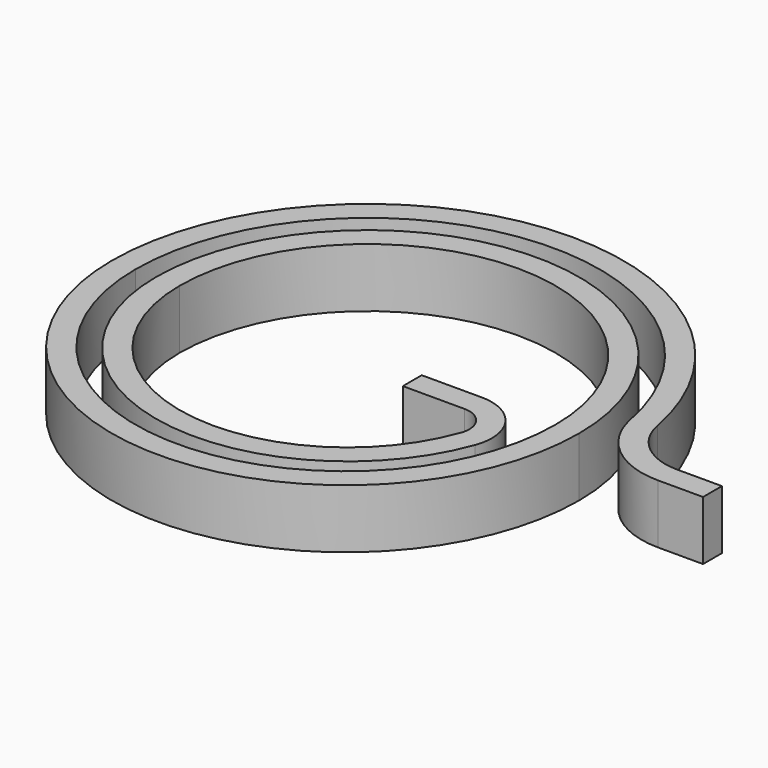
from build123d import *

# Parameters (mm, degrees)
F1_DEPTH = 3


with BuildPart() as f1:
    # F0 (on Top) → F1 (new body)
    with BuildSketch(Plane.XY):
        with BuildLine():
            ThreePointArc((15.716234, 0), (13.804101, 0.688345), (12.76944, 2.4375))
            ThreePointArc((12.76944, 2.4375), (-1.22419, 12.942232), (-13, 0))
            ThreePointArc((-13, 0), (-1.125, -11.875), (10.75, 0))
            ThreePointArc((10.75, 0), (0, 10.75), (-10.75, 0))
            ThreePointArc((-10.75, 0), (-2.707419, -9.599334), (8.151994, -3.362069))
            ThreePointArc((8.151994, -3.362069), (7.85535, -1.069121), (5.805329, 0))
            Line((5.805329, 0), (2.75, 0))
            Line((2.75, 0), (2.75, -1.2))
            Line((2.75, -1.2), (5.876591, -1.2))
            ThreePointArc((5.876591, -1.2), (6.898085, -1.729549), (7.054089, -2.869521))
            ThreePointArc((7.054089, -2.869521), (-2.456028, -8.42511), (-9.55, 0))
            ThreePointArc((-9.55, 0), (0, 9.55), (9.55, 0))
            ThreePointArc((9.55, 0), (-1.125, -10.675), (-11.8, 0))
            ThreePointArc((-11.8, 0), (-1.111188, 11.747564), (11.590722, 2.2125))
            ThreePointArc((11.590722, 2.2125), (13.039248, -0.236317), (15.716234, -1.2))
            Line((15.716234, -1.2), (18, -1.2))
            Line((18, -1.2), (18, 0))
            Line((18, 0), (15.716234, 0))
        make_face()
    extrude(amount=F1_DEPTH)


solid = f1.part
